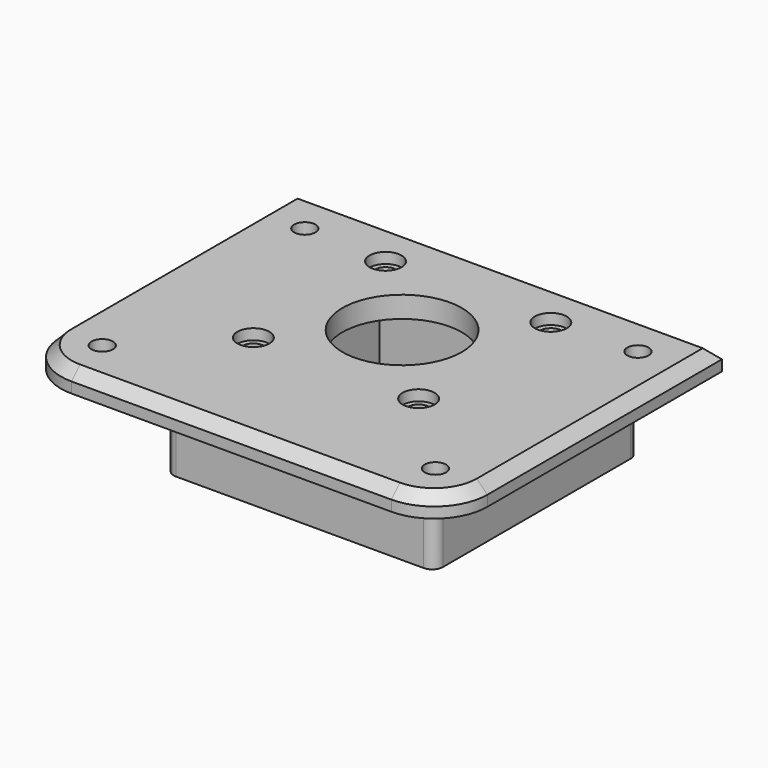
from build123d import *

# Parameters (mm, degrees)
SKETCH_W        = 80
SKETCH_H        = 65
PAD_DEPTH       = 4
SKETCH001_R     = 11.2
POCKET_DEPTH    = 4.001
SKETCH002_R     = 2
POCKET001_DEPTH = 4.001
SKETCH003_W     = 50.5
SKETCH003_H     = 48
SKETCH003_W_2   = 42.3
SKETCH003_H_2   = 42.3
PAD001_DEPTH    = 18
SKETCH004_R     = 3
POCKET002_DEPTH = 2
SKETCH005_R     = 2
POCKET003_DEPTH = 22.001
FILLET_R        = 10
FILLET001_R     = 2
CHAMFER_SIZE    = 2


with BuildPart() as part:
    # Sketch → Pad (new body)
    with BuildSketch(Plane.XY):
        with Locations((0, -7.5)):
            Rectangle(SKETCH_W, SKETCH_H)
    extrude(amount=PAD_DEPTH)

    # Sketch001 (on Face6 of Pad) → Pocket (cut, through all)
    with BuildSketch(Plane.XY.offset(4)):
        Circle(SKETCH001_R)
    extrude(amount=-POCKET_DEPTH, mode=Mode.SUBTRACT)

    # Sketch002 (on Face5 of Pocket) → Pocket001 (cut, through all)
    with BuildSketch(Plane.XY.offset(4)):
        with Locations((-15.5, 15.5)):
            Circle(SKETCH002_R)
        with Locations((-15.5, -15.5)):
            Circle(SKETCH002_R)
        with Locations((15.5, -15.5)):
            Circle(SKETCH002_R)
        with Locations((15.5, 15.5)):
            Circle(SKETCH002_R)
    extrude(amount=-POCKET001_DEPTH, mode=Mode.SUBTRACT)

    # Sketch003 (on Face4 of Pocket001) → Pad001 (join)
    with BuildSketch(Plane(origin=(0, 0, 0), x_dir=(1, 0, 0), z_dir=(0, 0, -1))):
        Rectangle(SKETCH003_W, SKETCH003_H)
        Rectangle(SKETCH003_W_2, SKETCH003_H_2, mode=Mode.SUBTRACT)
    extrude(amount=PAD001_DEPTH)

    # Sketch004 (on Face5 of Pad001) → Pocket002 (cut)
    with BuildSketch(Plane.XY.offset(4)):
        with Locations((-15.5, 15.5)):
            Circle(SKETCH004_R)
        with Locations((15.5, 15.5)):
            Circle(SKETCH004_R)
        with Locations((15.5, -15.5)):
            Circle(SKETCH004_R)
        with Locations((-15.5, -15.5)):
            Circle(SKETCH004_R)
    extrude(amount=-POCKET002_DEPTH, mode=Mode.SUBTRACT)

    # Sketch005 (on Face5 of Pocket002) → Pocket003 (cut, through all)
    with BuildSketch(Plane.XY.offset(4)):
        with Locations((-31.25, 16.25)):
            Circle(SKETCH005_R)
        with Locations((31.25, 16.25)):
            Circle(SKETCH005_R)
        with Locations((31.25, -31.25)):
            Circle(SKETCH005_R)
        with Locations((-31.25, -31.25)):
            Circle(SKETCH005_R)
    extrude(amount=-POCKET003_DEPTH, mode=Mode.SUBTRACT)

    # Fillet
    fillet_edges = [part.edges().sort_by_distance(p)[0] for p in [
        (40, -40, 2),
        (-40, -40, 2),
    ]]
    fillet(fillet_edges, radius=FILLET_R)

    # Fillet001
    fillet001_edges = [part.edges().sort_by_distance(p)[0] for p in [
        (25.25, -24, -9),
        (25.25, 24, -9),
        (-25.25, -24, -9),
        (-25.25, 24, -9),
    ]]
    fillet(fillet001_edges, radius=FILLET001_R)

    # Chamfer
    chamfer_edges = [part.edges().sort_by_distance(p)[0] for p in [
        (0, 25, 4),
        (-40, -2.5, 4),
    ]]
    chamfer(chamfer_edges, length=CHAMFER_SIZE)


solid = part.part
